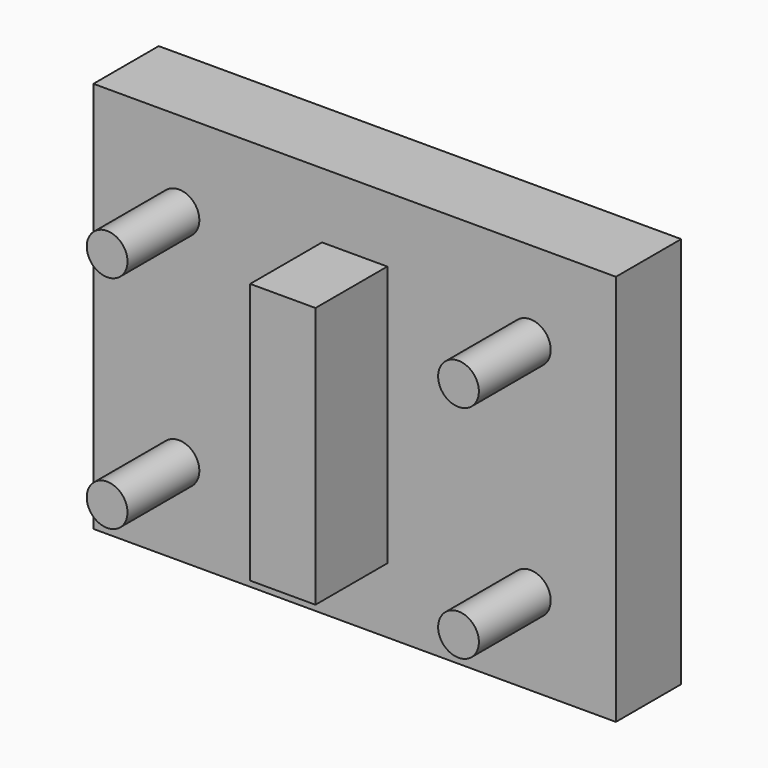
from build123d import *

# Parameters (mm, degrees)
F0_W     = 101.6
F0_H     = 76.2
F1_DEPTH = 7.9375
F2_R     = 3.9624
F2_W     = 12.7
F2_H     = 50.8
F3_DEPTH = 25.4


with BuildPart() as f1:
    # F0 (on Front) → F1 (new body, symmetric)
    with BuildSketch(Plane.XZ):
        Rectangle(F0_W, F0_H)
    extrude(amount=F1_DEPTH, both=True)

    # F2 (on Front) → F3 (join)
    with BuildSketch(Plane.XZ):
        with Locations((34.163, 21.463)):
            Circle(F2_R)
        with Locations((34.163, -21.463)):
            Circle(F2_R)
        Rectangle(F2_W, F2_H)
        with Locations((-34.163, 21.463)):
            Circle(F2_R)
        with Locations((-34.163, -21.463)):
            Circle(F2_R)
    extrude(amount=F3_DEPTH)


solid = f1.part
